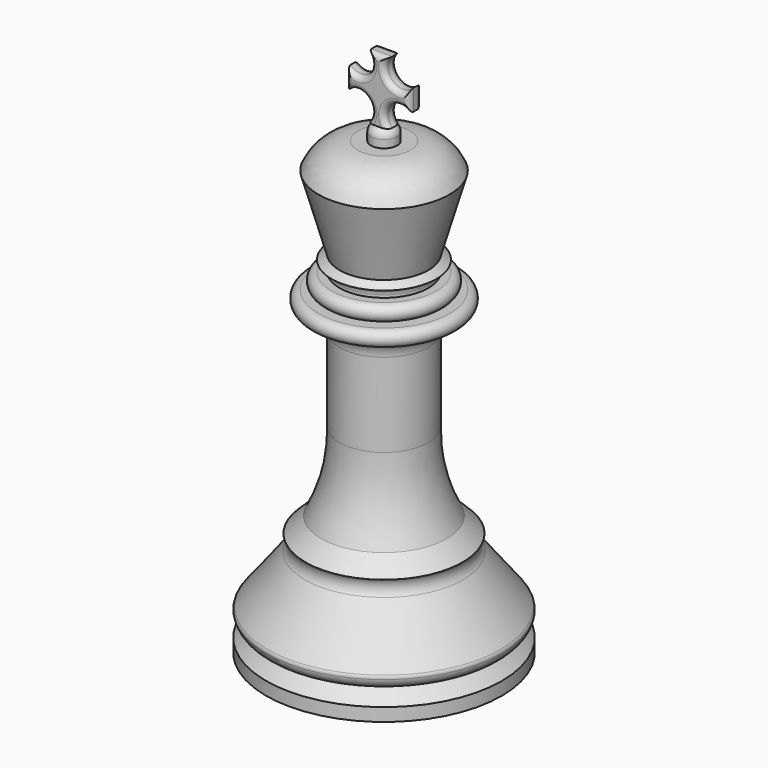
from build123d import *

# Parameters (mm, degrees)
F2_R      = 2.5
F3_DEPTH  = 3
F4_R      = 1.5
F5_W      = 12
F5_H      = 3
F6_DEPTH  = 12
F7_R      = 2.8284271247
F8_DEPTH  = 3
F9_R      = 1
F10_R     = 1
F11_SCALE = 0.35


with BuildPart() as f1:
    # F0 (on Front) → F1 (revolve)
    with BuildSketch(Plane.XZ):
        with BuildLine():
            Line((0, -32.5), (0, 0))
            Line((0, 0), (0, 8.5))
            Line((0, 8.5), (-10, 8.5))
            Line((-10, 8.5), (-12.5, 8.5))
            ThreePointArc((-12.5, 8.5), (-14, 7), (-12.5, 5.5))
            ThreePointArc((-12.5, 5.5), (-9.6715728753, 4.3284271247), (-8.5, 1.5))
            Line((-8.5, 1.5), (-8.5, -14.5))
            ThreePointArc((-8.5, -14.5), (-9.2906328156, -22.223852343), (-12, -29.5))
            Line((-12, -29.5), (-14.9905015534, -32.5))
            Line((-14.9905015534, -32.5), (0, -32.5))
        make_face()
        with BuildLine():
            Line((-10, 8.5), (0, 8.5))
            Line((0, 8.5), (0, 14.5))
            Line((0, 14.5), (-8.5, 14.5))
            Line((-8.5, 14.5), (-10, 13.5))
            ThreePointArc((-10, 13.5), (-8.9393398282, 13.0606601718), (-8.5, 12))
            Line((-8.5, 12), (-8.5, 11.5))
            Line((-8.5, 11.5), (-10, 11.5))
            ThreePointArc((-10, 11.5), (-11.5, 10), (-10, 8.5))
        make_face()
        with BuildLine():
            Line((0, -47.5), (0, -32.5))
            Line((0, -32.5), (-14.9905015534, -32.5))
            Line((-14.9905015534, -32.5), (-14.99619339, -32.5057099151))
            ThreePointArc((-14.99619339, -32.5057099151), (-14.5778452371, -33.9798001313), (-15.0981066223, -35.4210791583))
            Line((-15.0981066223, -35.4210791583), (-22.2995082136, -44.7405400411))
            ThreePointArc((-22.2995082136, -44.7405400411), (-22.452270608, -45.0544403605), (-22.4672690248, -45.4032165166))
            ThreePointArc((-22.4672690248, -45.4032165166), (-21.6189439009, -46.9049988572), (-20, -47.5))
            Line((-20, -47.5), (0, -47.5))
        make_face()
        with BuildLine():
            Line((-8.5, 14.5), (0, 14.5))
            Line((0, 14.5), (0, 33.5))
            Line((0, 33.5), (-5, 33.5))
            ThreePointArc((-5, 33.5), (-9.5069390943, 32.1354086415), (-12.5, 28.5))
            Line((-12.5, 28.5), (-8.5, 14.5))
        make_face()
        Polygon((0, -52.5), (0, -47.5), (-20, -47.5), (-22.5, -50), (-22.5, -52.5), align=None)
        Polygon((-14.99619339, -32.5057099151), (-14.9905015534, -32.5), (-15, -32.5), align=None)
    revolve(axis=Axis((0, 0, -26.25), (0, 0, -1)))

    # F2 (on face) → F3 (join)
    with BuildSketch(Plane.XY.offset(33.5)):
        Circle(F2_R)
    extrude(amount=F3_DEPTH)

    # F4
    f4_edges = [f1.edges().sort_by_distance(p)[0] for p in [
        (-2.5, 0, 36.5),
    ]]
    fillet(f4_edges, radius=F4_R)

    # F5 (on face) → F6 (join)
    with BuildSketch(Plane.XY.offset(36.5)):
        Rectangle(F5_W, F5_H)
    extrude(amount=F6_DEPTH)

    # F7 (on face) → F8 (cut)
    with BuildSketch(Plane.XZ.offset(1.5)):
        with Locations((-4, 46.5)):
            Circle(F7_R)
        with Locations((4, 46.5)):
            Circle(F7_R)
        with Locations((4, 38.5)):
            Circle(F7_R)
        with Locations((-4, 38.5)):
            Circle(F7_R)
    extrude(amount=-F8_DEPTH, mode=Mode.SUBTRACT)

    # F9
    f9_edges = [f1.edges().sort_by_distance(p)[0] for p in [
        (-2, -1.5, 44.5),
        (0, -1.5, 48.5),
        (2, -1.5, 44.5),
        (6, -1.5, 42.5),
        (2, -1.5, 40.5),
        (-2, -1.5, 40.5),
        (-6, -1.5, 42.5),
    ]]
    fillet(f9_edges, radius=F9_R)

    # F10
    f10_edges = [f1.edges().sort_by_distance(p)[0] for p in [
        (2, 1.5, 44.5),
        (6, 1.5, 42.5),
        (2, 1.5, 40.5),
        (-2, 1.5, 40.5),
        (-6, 1.5, 42.5),
        (-2, 1.5, 44.5),
        (0, 1.5, 48.5),
    ]]
    fillet(f10_edges, radius=F10_R)


with BuildPart() as f1_1:
    # F11: moved
    add(f1.part.scale(F11_SCALE))


solid = f1_1.part
